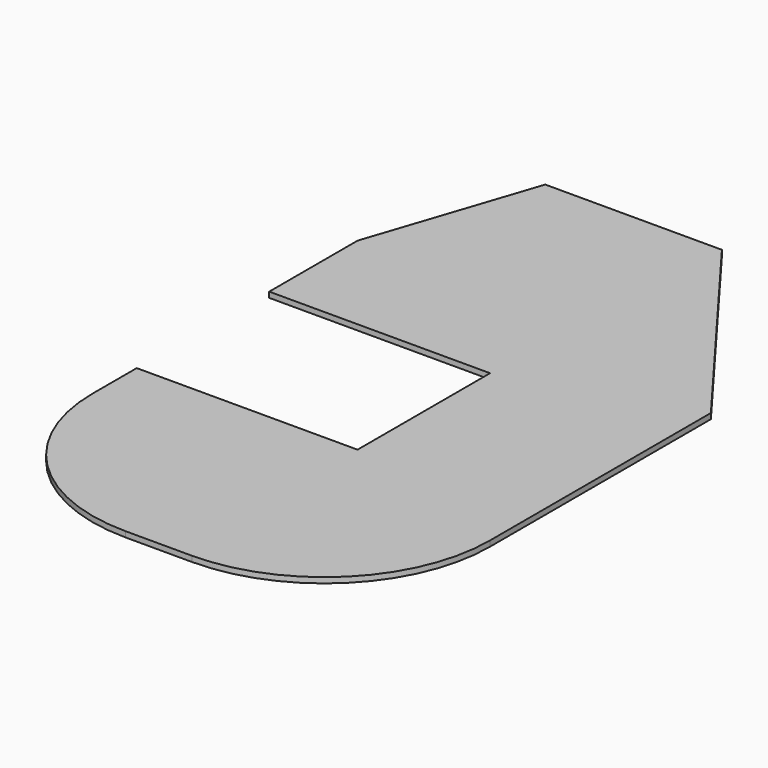
from build123d import *

# Parameters (mm, degrees)
F0_W     = 360
F0_H     = 600
F1_DEPTH = 5
F2_W     = 200
F2_H     = 150
F3_DEPTH = 25
F4_R     = 150
F5_SIZE2 = 50
F5_SIZE  = 150
F6_SIZE2 = 200
F6_SIZE  = 150
F7_R     = 150


with BuildPart() as f1:
    # F0 (on Top) → F1 (new body)
    with BuildSketch(Plane.XY):
        with Locations((180, 300)):
            Rectangle(F0_W, F0_H)
    extrude(amount=F1_DEPTH)

    # F2 (on face) → F3 (cut)
    with BuildSketch(Plane.XY.offset(5)):
        with Locations((100, 275)):
            Rectangle(F2_W, F2_H)
    extrude(amount=-F3_DEPTH, mode=Mode.SUBTRACT)

    # F4
    f4_edges = [f1.edges().sort_by_distance(p)[0] for p in [
        (0, 0, 2.5),
    ]]
    fillet(f4_edges, radius=F4_R)

    # F5
    f5_edges = [f1.edges().sort_by_distance(p)[0] for p in [
        (0, 600, 2.5),
    ]]
    f5_side = f1.faces().sort_by_distance((0, 475, 2.5))[0]
    chamfer(f5_edges, length=F5_SIZE, length2=F5_SIZE2, reference=f5_side)

    # F6
    f6_edges = [f1.edges().sort_by_distance(p)[0] for p in [
        (360, 600, 2.5),
    ]]
    f6_side = f1.faces().sort_by_distance((205, 600, 2.5))[0]
    chamfer(f6_edges, length=F6_SIZE, length2=F6_SIZE2, reference=f6_side)

    # F7
    f7_edges = [f1.edges().sort_by_distance(p)[0] for p in [
        (360, 0, 2.5),
    ]]
    fillet(f7_edges, radius=F7_R)


solid = f1.part
